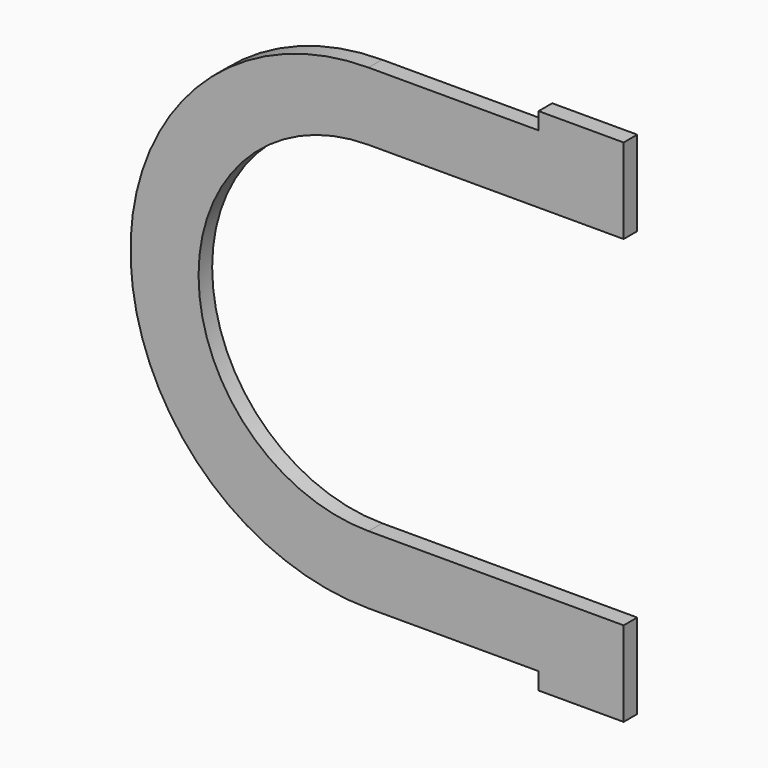
from build123d import *

# Parameters (mm, degrees)
F1_DEPTH = 12.7


with BuildPart() as f1:
    # F0 (on Front) → F1 (new body)
    with BuildSketch(Plane.XZ):
        with BuildLine():
            Line((127, 177.8), (0, 177.8))
            ThreePointArc((0, 177.8), (-177.8, 0), (0, -177.8))
            Line((0, -177.8), (127, -177.8))
            Line((127, -177.8), (127, -190.5))
            Line((127, -190.5), (190.5, -190.5))
            Line((190.5, -190.5), (190.5, -177.8))
            Line((190.5, -177.8), (190.5, -127))
            Line((190.5, -127), (127, -127))
            Line((127, -127), (0, -127))
            ThreePointArc((0, -127), (-127, 0), (0, 127))
            Line((0, 127), (127, 127))
            Line((127, 127), (190.5, 127))
            Line((190.5, 127), (190.5, 177.8))
            Line((190.5, 177.8), (190.5, 190.5))
            Line((190.5, 190.5), (127, 190.5))
            Line((127, 190.5), (127, 177.8))
        make_face()
    extrude(amount=F1_DEPTH)


solid = f1.part
